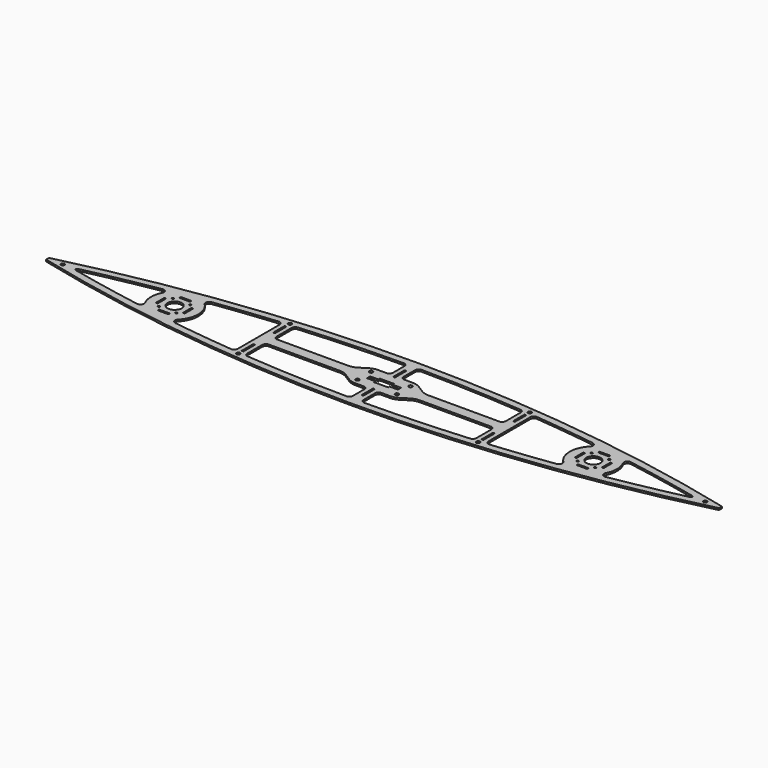
from build123d import *

# Parameters (mm, degrees)
F0_R     = 3.175
F1_DEPTH = 3.175
F2_W     = 3.175
F2_H     = 25.4
F3_DEPTH = 3.176
F4_W     = 19.05
F4_H     = 3.175
F4_W_2   = 3.175
F4_H_2   = 19.05
F5_DEPTH = 3.176
F6_R     = 12.7
F6_R_2   = 1.785938
F7_DEPTH = 3.176


with BuildPart() as f1:
    # F0 (on Top) → F1 (new body)
    with BuildSketch(Plane.XY):
        with BuildLine():
            Line((596.9, 0), (596.9, 3.18968))
            ThreePointArc((596.9, 3.18968), (0, 76.2), (-596.9, 3.18968))
            Line((-596.9, 3.18968), (-596.9, 0))
            Line((-596.9, 0), (-596.9, -3.18968))
            ThreePointArc((-596.9, -3.18968), (0, -76.2), (596.9, -3.18968))
            Line((596.9, -3.18968), (596.9, 0))
        make_face()
        with Locations((-212.725, -57.15)):
            Circle(F0_R, mode=Mode.SUBTRACT)
        with BuildLine():
            ThreePointArc((-197.358656, -55.582734), (-201.516501, -53.559676), (-203.2, -49.253139))
            Line((-203.2, -49.253139), (-203.2, -15.875))
            ThreePointArc((-203.2, -15.875), (-201.340128, -11.384872), (-196.85, -9.525))
            Line((-196.85, -9.525), (-70.784624, -9.525))
            ThreePointArc((-70.784624, -9.525), (-63.782288, -10.509282), (-57.322651, -13.385843))
            Line((-57.322651, -13.385843), (-44.277349, -21.539157))
            ThreePointArc((-44.277349, -21.539157), (-37.817712, -24.415718), (-30.815376, -25.4))
            Line((-30.815376, -25.4), (-15.875, -25.4))
            ThreePointArc((-15.875, -25.4), (-11.384872, -27.259872), (-9.525, -31.75))
            Line((-9.525, -31.75), (-9.525, -57.098724))
            ThreePointArc((-9.525, -57.098724), (-11.399398, -61.603331), (-15.916021, -63.448591))
            ThreePointArc((-15.916021, -63.448591), (-106.70984, -61.188056), (-197.358656, -55.582734))
        make_face(mode=Mode.SUBTRACT)
        with Locations((-34.925, -15.24)):
            Circle(F0_R, mode=Mode.SUBTRACT)
        with Locations((212.725, -57.15)):
            Circle(F0_R, mode=Mode.SUBTRACT)
        with BuildLine():
            Line((15.875, -25.4), (30.815376, -25.4))
            ThreePointArc((30.815376, -25.4), (37.817712, -24.415718), (44.277349, -21.539157))
            Line((44.277349, -21.539157), (57.322651, -13.385843))
            ThreePointArc((57.322651, -13.385843), (63.782288, -10.509282), (70.784624, -9.525))
            Line((70.784624, -9.525), (196.85, -9.525))
            ThreePointArc((196.85, -9.525), (201.340128, -11.384872), (203.2, -15.875))
            Line((203.2, -15.875), (203.2, -49.253139))
            ThreePointArc((203.2, -49.253139), (201.516501, -53.559676), (197.358656, -55.582734))
            ThreePointArc((197.358656, -55.582734), (106.70984, -61.188056), (15.916021, -63.448591))
            ThreePointArc((15.916021, -63.448591), (11.399398, -61.603331), (9.525, -57.098724))
            Line((9.525, -57.098724), (9.525, -31.75))
            ThreePointArc((9.525, -31.75), (11.384872, -27.259872), (15.875, -25.4))
        make_face(mode=Mode.SUBTRACT)
        with Locations((34.925, -15.24)):
            Circle(F0_R, mode=Mode.SUBTRACT)
        with Locations((-569.67145, 0)):
            Circle(F0_R, mode=Mode.SUBTRACT)
        with BuildLine():
            ThreePointArc((-544.952013, 2.47709), (-480.411352, 16.208923), (-415.526106, 28.207462))
            ThreePointArc((-415.526106, 28.207462), (-409.339412, 25.710284), (-408.799878, 19.060472))
            ThreePointArc((-408.799878, 19.060472), (-412.222599, 9.802104), (-413.385, 0))
            ThreePointArc((-413.385, 0), (-412.222599, -9.802104), (-408.799878, -19.060472))
            ThreePointArc((-408.799878, -19.060472), (-409.339412, -25.710284), (-415.526106, -28.207462))
            ThreePointArc((-415.526106, -28.207462), (-480.411352, -16.208923), (-544.952013, -2.47709))
            ThreePointArc((-544.952013, -2.47709), (-546.930207, 0), (-544.952013, 2.47709))
        make_face(mode=Mode.SUBTRACT)
        with BuildLine():
            ThreePointArc((-229.190698, 52.816806), (-224.323812, 51.188668), (-222.25, 46.49434))
            Line((-222.25, 46.49434), (-222.25, 0))
            Line((-222.25, 0), (-222.25, -46.49434))
            ThreePointArc((-222.25, -46.49434), (-224.323812, -51.188668), (-229.190698, -52.816806))
            ThreePointArc((-229.190698, -52.816806), (-283.671135, -47.115193), (-338.011351, -40.203794))
            ThreePointArc((-338.011351, -40.203794), (-343.153762, -35.953301), (-341.657926, -29.451489))
            ThreePointArc((-341.657926, -29.451489), (-332.705929, -15.918771), (-329.565, 0))
            ThreePointArc((-329.565, 0), (-332.705929, 15.918771), (-341.657926, 29.451489))
            ThreePointArc((-341.657926, 29.451489), (-343.153762, 35.953301), (-338.011351, 40.203794))
            ThreePointArc((-338.011351, 40.203794), (-283.671135, 47.115193), (-229.190698, 52.816806))
        make_face(mode=Mode.SUBTRACT)
        with Locations((-34.925, 15.24)):
            Circle(F0_R, mode=Mode.SUBTRACT)
        with BuildLine():
            Line((-203.2, 15.875), (-203.2, 49.253139))
            ThreePointArc((-203.2, 49.253139), (-201.516501, 53.559676), (-197.358656, 55.582734))
            ThreePointArc((-197.358656, 55.582734), (-106.70984, 61.188056), (-15.916021, 63.448591))
            ThreePointArc((-15.916021, 63.448591), (-11.399398, 61.603331), (-9.525, 57.098724))
            Line((-9.525, 57.098724), (-9.525, 31.75))
            ThreePointArc((-9.525, 31.75), (-11.384872, 27.259872), (-15.875, 25.4))
            Line((-15.875, 25.4), (-30.815376, 25.4))
            ThreePointArc((-30.815376, 25.4), (-37.817712, 24.415718), (-44.277349, 21.539157))
            Line((-44.277349, 21.539157), (-57.322651, 13.385843))
            ThreePointArc((-57.322651, 13.385843), (-63.782288, 10.509282), (-70.784624, 9.525))
            Line((-70.784624, 9.525), (-196.85, 9.525))
            ThreePointArc((-196.85, 9.525), (-201.340128, 11.384872), (-203.2, 15.875))
        make_face(mode=Mode.SUBTRACT)
        with Locations((-212.725, 57.15)):
            Circle(F0_R, mode=Mode.SUBTRACT)
        Polygon((-27.305, -3.556), (-27.305, 0), (-27.305, 3.556), (-12.7, 3.556), (-12.7, 6.731), (12.7, 6.731), (12.7, 3.556), (27.305, 3.556), (27.305, 0), (27.305, -3.556), (12.7, -3.556), (12.7, -6.731), (-12.7, -6.731), (-12.7, -3.556), align=None, mode=Mode.SUBTRACT)
        with Locations((34.925, 15.24)):
            Circle(F0_R, mode=Mode.SUBTRACT)
        with BuildLine():
            ThreePointArc((229.190698, 52.816806), (283.671135, 47.115193), (338.011351, 40.203794))
            ThreePointArc((338.011351, 40.203794), (343.153762, 35.953301), (341.657926, 29.451489))
            ThreePointArc((341.657926, 29.451489), (332.705929, 15.918771), (329.565, 0))
            ThreePointArc((329.565, 0), (332.705929, -15.918771), (341.657926, -29.451489))
            ThreePointArc((341.657926, -29.451489), (343.153762, -35.953301), (338.011351, -40.203794))
            ThreePointArc((338.011351, -40.203794), (283.671135, -47.115193), (229.190698, -52.816806))
            ThreePointArc((229.190698, -52.816806), (224.323812, -51.188668), (222.25, -46.49434))
            Line((222.25, -46.49434), (222.25, 0))
            Line((222.25, 0), (222.25, 46.49434))
            ThreePointArc((222.25, 46.49434), (224.323812, 51.188668), (229.190698, 52.816806))
        make_face(mode=Mode.SUBTRACT)
        with BuildLine():
            ThreePointArc((15.916021, 63.448591), (106.70984, 61.188056), (197.358656, 55.582734))
            ThreePointArc((197.358656, 55.582734), (201.516501, 53.559676), (203.2, 49.253139))
            Line((203.2, 49.253139), (203.2, 15.875))
            ThreePointArc((203.2, 15.875), (201.340128, 11.384872), (196.85, 9.525))
            Line((196.85, 9.525), (70.784624, 9.525))
            ThreePointArc((70.784624, 9.525), (63.782288, 10.509282), (57.322651, 13.385843))
            Line((57.322651, 13.385843), (44.277349, 21.539157))
            ThreePointArc((44.277349, 21.539157), (37.817712, 24.415718), (30.815376, 25.4))
            Line((30.815376, 25.4), (15.875, 25.4))
            ThreePointArc((15.875, 25.4), (11.384872, 27.259872), (9.525, 31.75))
            Line((9.525, 31.75), (9.525, 57.098724))
            ThreePointArc((9.525, 57.098724), (11.399398, 61.603331), (15.916021, 63.448591))
        make_face(mode=Mode.SUBTRACT)
        with BuildLine():
            ThreePointArc((415.526106, 28.207462), (480.411352, 16.208923), (544.952013, 2.47709))
            ThreePointArc((544.952013, 2.47709), (546.930207, 0), (544.952013, -2.47709))
            ThreePointArc((544.952013, -2.47709), (480.411352, -16.208923), (415.526106, -28.207462))
            ThreePointArc((415.526106, -28.207462), (409.339412, -25.710284), (408.799878, -19.060472))
            ThreePointArc((408.799878, -19.060472), (412.222599, -9.802104), (413.385, 0))
            ThreePointArc((413.385, 0), (412.222599, 9.802104), (408.799878, 19.060472))
            ThreePointArc((408.799878, 19.060472), (409.339412, 25.710284), (415.526106, 28.207462))
        make_face(mode=Mode.SUBTRACT)
        with Locations((569.67145, 0)):
            Circle(F0_R, mode=Mode.SUBTRACT)
        with Locations((212.725, 57.15)):
            Circle(F0_R, mode=Mode.SUBTRACT)
    extrude(amount=F1_DEPTH)

    # F2 (on face) → F3 (cut, through all)
    with BuildSketch(Plane.XY.offset(3.175)):
        with Locations((-212.725, 34.925)):
            Rectangle(F2_W, F2_H)
        with Locations((0, 34.925)):
            Rectangle(F2_W, F2_H)
        with Locations((212.725, 34.925)):
            Rectangle(F2_W, F2_H)
        with Locations((212.725, -34.925)):
            Rectangle(F2_W, F2_H)
        with Locations((0, -34.925)):
            Rectangle(F2_W, F2_H)
        with Locations((-212.725, -34.925)):
            Rectangle(F2_W, F2_H)
    extrude(amount=-F3_DEPTH, mode=Mode.SUBTRACT)

    # F4 (on face) → F5 (cut, through all)
    with BuildSketch(Plane.XY.offset(3.175)):
        with Locations((-371.475, 24.0665)):
            Rectangle(F4_W, F4_H)
        with Locations((-395.5415, 0)):
            Rectangle(F4_W_2, F4_H_2)
        with Locations((-371.475, -24.0665)):
            Rectangle(F4_W, F4_H)
        with Locations((-347.4085, 0)):
            Rectangle(F4_W_2, F4_H_2)
        with Locations((371.475, 24.0665)):
            Rectangle(F4_W, F4_H)
        with Locations((347.4085, 0)):
            Rectangle(F4_W_2, F4_H_2)
        with Locations((371.475, -24.0665)):
            Rectangle(F4_W, F4_H)
        with Locations((395.5415, 0)):
            Rectangle(F4_W_2, F4_H_2)
    extrude(amount=-F5_DEPTH, mode=Mode.SUBTRACT)

    # F6 (on face) → F7 (cut, through all)
    with BuildSketch(Plane.XY.offset(3.175)):
        with Locations((-371.475, 0)):
            Circle(F6_R)
        with Locations((-355.984058, 15.490942)):
            Circle(F6_R_2)
        with Locations((-355.984058, -15.490942)):
            Circle(F6_R_2)
        with Locations((-386.965942, -15.490942)):
            Circle(F6_R_2)
        with Locations((-386.965942, 15.490942)):
            Circle(F6_R_2)
        with Locations((355.984058, 15.490942)):
            Circle(F6_R_2)
        with Locations((371.475, 0)):
            Circle(F6_R)
        with Locations((355.984058, -15.490942)):
            Circle(F6_R_2)
        with Locations((386.965942, -15.490942)):
            Circle(F6_R_2)
        with Locations((386.965942, 15.490942)):
            Circle(F6_R_2)
    extrude(amount=-F7_DEPTH, mode=Mode.SUBTRACT)


solid = f1.part
